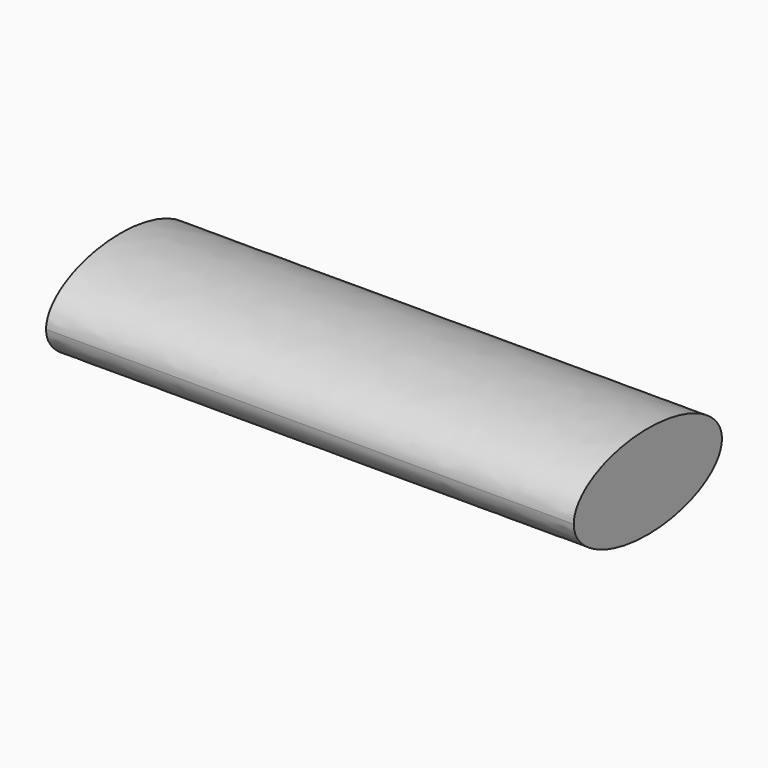
from build123d import *

# Parameters (mm, degrees)
F0_W     = 83.981976
F0_H     = 29.475152
F1_DEPTH = 25
F3_DEPTH = 200


with BuildPart() as f1:
    # F0 (on Top) → F1 (new body)
    with BuildSketch(Plane.XY):
        with Locations((-7.530011, 27.271554)):
            Rectangle(F0_W, F0_H)
    extrude(amount=F1_DEPTH)

    # F2 (on face) → F3 (intersect)
    with BuildSketch(Plane(origin=(-49.520999, 0, 0), x_dir=(0, -1, 0), z_dir=(-1, 0, 0))):
        with BuildLine():
            add(Edge.make_bspline(
                [(-42.00913, 12.5), (-42.00913, 5.052196), (-27.271554, 5.052196), (-12.533978, 5.052196), (-12.533978, 12.5)],
                knots=[3.141593, 3.141593, 3.141593, 4.712389, 4.712389, 6.283185, 6.283185, 6.283185], degree=2, weights=[1, 0.707107, 1, 0.707107, 1]))
            add(Edge.make_bspline(
                [(-12.533978, 12.5), (-12.533978, 19.947804), (-27.271554, 19.947804), (-42.00913, 19.947804), (-42.00913, 12.5)],
                knots=[0, 0, 0, 1.570796, 1.570796, 3.141593, 3.141593, 3.141593], degree=2, weights=[1, 0.707107, 1, 0.707107, 1]))
        make_face()
    extrude(amount=-F3_DEPTH, mode=Mode.INTERSECT)


solid = f1.part
